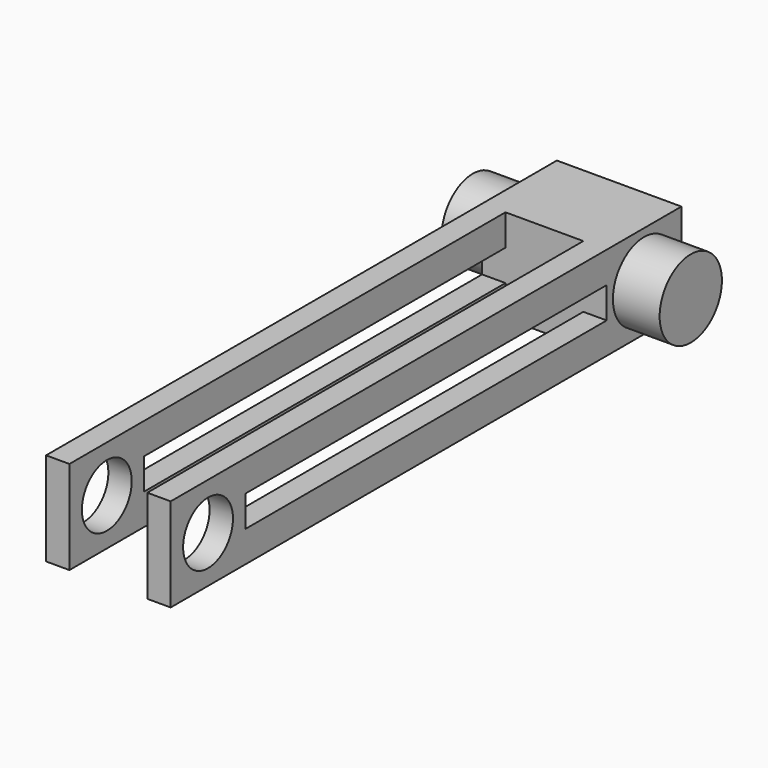
from build123d import *

# Parameters (mm, degrees)
F0_R          = 25
F1_DEPTH      = 140
F2_W          = 80
F2_H          = 60
F3_DEPTH      = 30
F3_DEPTH_BACK = 30
F4_W          = 15
F4_H          = 20
F5_DEPTH      = 350
F6_W          = 15
F6_H          = 60
F7_DEPTH      = 50
F8_R          = 20
F9_DEPTH      = 110.001


with BuildPart() as f1:
    # F0 (on Right) → F1 (new body)
    with BuildSketch(Plane.YZ):
        Circle(F0_R)
    extrude(amount=F1_DEPTH)

    # F2 (on Front) → F3 (join, two sides)
    with BuildSketch(Plane.XZ) as f3_sk:
        with Locations((70, 0)):
            Rectangle(F2_W, F2_H)
    extrude(amount=F3_DEPTH)
    extrude(f3_sk.sketch, amount=-F3_DEPTH_BACK)

    # F4 (on face) → F5 (join)
    with BuildSketch(Plane.XZ.offset(30)):
        with Locations((102.5, 20)):
            Rectangle(F4_W, F4_H)
        with Locations((37.5, 20)):
            Rectangle(F4_W, F4_H)
        with Locations((37.5, -20)):
            Rectangle(F4_W, F4_H)
        with Locations((102.5, -20)):
            Rectangle(F4_W, F4_H)
    extrude(amount=F5_DEPTH)

    # F6 (on face) → F7 (join)
    with BuildSketch(Plane.XY.offset(30)):
        with Locations((102.5, -350)):
            Rectangle(F6_W, F6_H)
        with Locations((37.5, -350)):
            Rectangle(F6_W, F6_H)
    extrude(amount=-F7_DEPTH)

    # F8 (on face) → F9 (cut, through all)
    with BuildSketch(Plane.YZ.offset(110)):
        with Locations((-350, 0)):
            Circle(F8_R)
    extrude(amount=-F9_DEPTH, mode=Mode.SUBTRACT)


solid = f1.part
